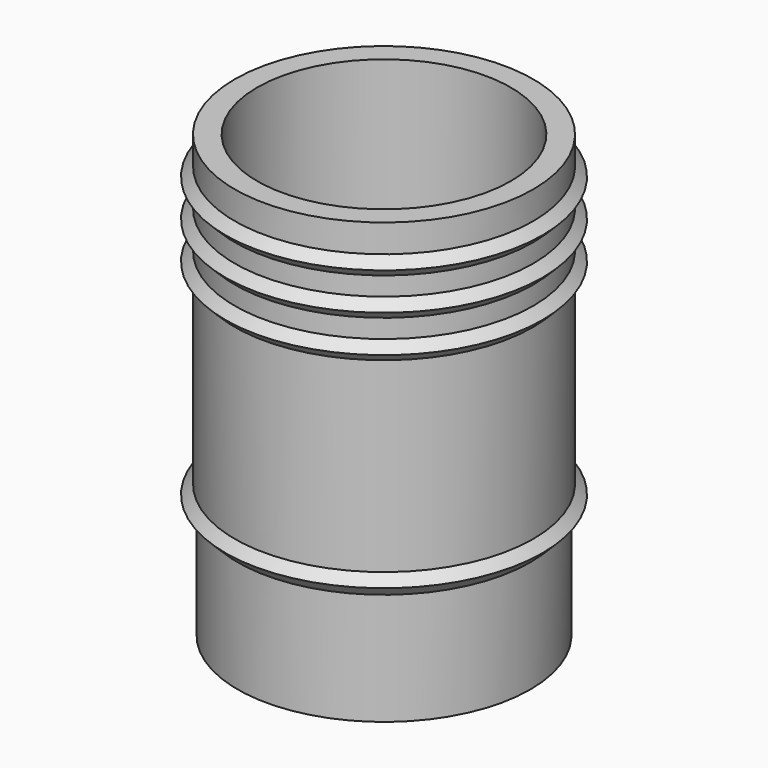
from build123d import *


with BuildPart() as part:
    # Sketch001 → Revolve (revolve)
    with BuildSketch(Plane.XZ):
        Polygon((8, 17.15), (8.5, 17.65), (8, 18.15), (8, 19.15), (8.5, 19.65), (8, 20.15), (8, 21.15), (8.5, 21.65), (8, 22.15), (8, 23.65), (6.8, 23.65), (6.8, 0), (7.85, 0), (7.85, 6), (8.5, 6.65), (8, 7.15), align=None)
    revolve(axis=Axis((0, 0, 0), (0, 0, 1)))


solid = part.part
